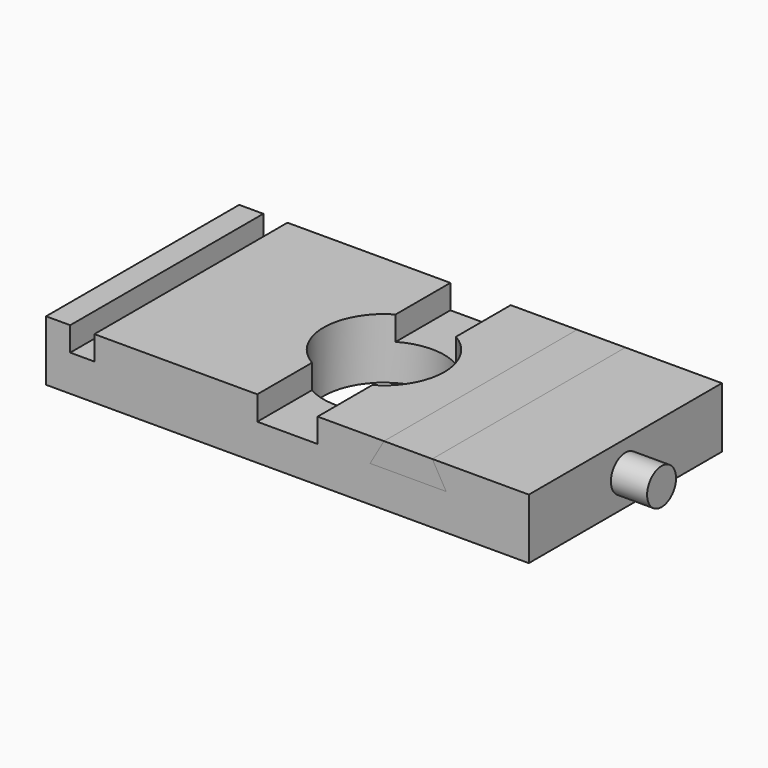
from build123d import *

# Parameters (mm, degrees)
F0_W     = 200
F0_H     = 100
F0_R     = 25
F1_DEPTH = 25
F2_W     = 10
F2_H     = 100
F3_DEPTH = 10
F5_DEPTH = 100
F6_R     = 7.5
F7_DEPTH = 15
F9_DEPTH = 100


with BuildPart() as f1:
    # F0 (on Top) → F1 (new body)
    with BuildSketch(Plane.XY):
        Rectangle(F0_W, F0_H)
        Circle(F0_R, mode=Mode.SUBTRACT)
    extrude(amount=F1_DEPTH)

    # F2 (on face) → F3 (cut)
    with BuildSketch(Plane.XY.offset(25)):
        with BuildLine():
            Line((-12.5, -21.650635), (-12.5, -50))
            Line((-12.5, -50), (12.5, -50))
            Line((12.5, -50), (12.5, -21.650635))
            ThreePointArc((12.5, -21.650635), (0, -25), (-12.5, -21.650635))
        make_face()
        with BuildLine():
            Line((12.5, 50), (-12.5, 50))
            Line((-12.5, 50), (-12.5, 21.650635))
            ThreePointArc((-12.5, 21.650635), (0, 25), (12.5, 21.650635))
            Line((12.5, 21.650635), (12.5, 50))
        make_face()
        with Locations((-85, 0)):
            Rectangle(F2_W, F2_H)
    extrude(amount=-F3_DEPTH, mode=Mode.SUBTRACT)

    # F4 (on face) → F5 (cut)
    with BuildSketch(Plane.XZ.offset(50)):
        Polygon((60, 25), (40, 25), (34.226497, 15), (65.773503, 15), align=None)
    extrude(amount=-F5_DEPTH, mode=Mode.SUBTRACT)

    # F6 (on face) → F7 (join)
    with BuildSketch(Plane.YZ.offset(100)):
        with Locations((0, 12.5)):
            Circle(F6_R)
    extrude(amount=F7_DEPTH)


with BuildPart() as f9:
    # F8 (on face) → F9 (new body)
    with BuildSketch(Plane.XZ.offset(50)):
        Polygon((60, 25), (40, 25), (34.226497, 15), (65.773503, 15), align=None)
    extrude(amount=-F9_DEPTH)


solid = Compound([f1.part, f9.part])
